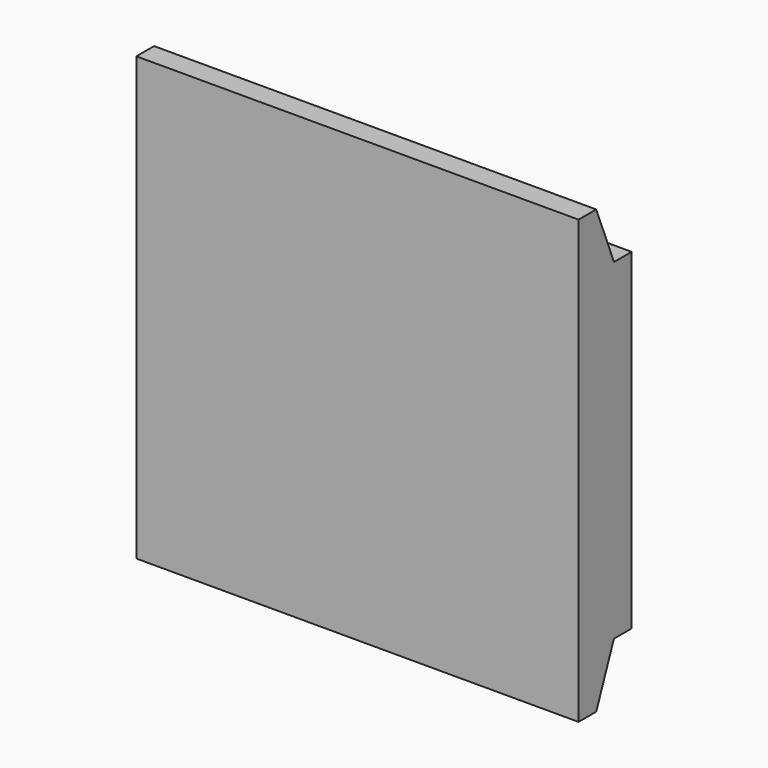
from build123d import *

# Parameters (mm, degrees)
F1_DEPTH = 25.4
F2_DEPTH = 25.4
F4_DEPTH = 1.27


with BuildPart() as f1:
    # F0 (on Right) → F1 (new body)
    with BuildSketch(Plane.YZ):
        Polygon((0, -19.05), (0, 0), (0, 19.05), (-2.54, 19.05), (-5.08, 25.4), (-7.62, 25.4), (-7.62, -25.4), (-5.08, -25.4), (-2.54, -19.05), align=None)
    extrude(amount=F1_DEPTH)

    # F0 (on Right) → F2 (join)
    with BuildSketch(Plane.YZ):
        Polygon((0, -19.05), (0, 0), (0, 19.05), (-2.54, 19.05), (-5.08, 25.4), (-7.62, 25.4), (-7.62, -25.4), (-5.08, -25.4), (-2.54, -19.05), align=None)
    extrude(amount=-F2_DEPTH)

    # F3 (on face) → F4 (cut)
    with BuildSketch(Plane(origin=(0, 0, 0), x_dir=(-1, 0, 0), z_dir=(0, 1, 0))):
        with BuildLine():
            ThreePointArc((-0.254, 1.2443407893), (-0.8032185257, -0.9837377699), (1.27, 0))
            ThreePointArc((1.27, 0), (0.9837377699, 0.8032185257), (0.254, 1.2443407893))
            Line((0.254, 1.2443407893), (0.254, 1.016))
            Line((0.254, 1.016), (-0.254, 1.016))
            Line((-0.254, 1.016), (-0.254, 1.2443407893))
        make_face()
        with BuildLine():
            Line((0.254, 1.016), (0.254, 1.2443407893))
            ThreePointArc((0.254, 1.2443407893), (0, 1.27), (-0.254, 1.2443407893))
            Line((-0.254, 1.2443407893), (-0.254, 1.016))
            Line((-0.254, 1.016), (0.254, 1.016))
        make_face()
        with BuildLine():
            ThreePointArc((-0.254, 1.2443407893), (0, 1.27), (0.254, 1.2443407893))
            Line((0.254, 1.2443407893), (0.254, 2.032))
            Line((0.254, 2.032), (-0.254, 2.032))
            Line((-0.254, 2.032), (-0.254, 1.2443407893))
        make_face()
    extrude(amount=-F4_DEPTH, mode=Mode.SUBTRACT)


solid = f1.part
